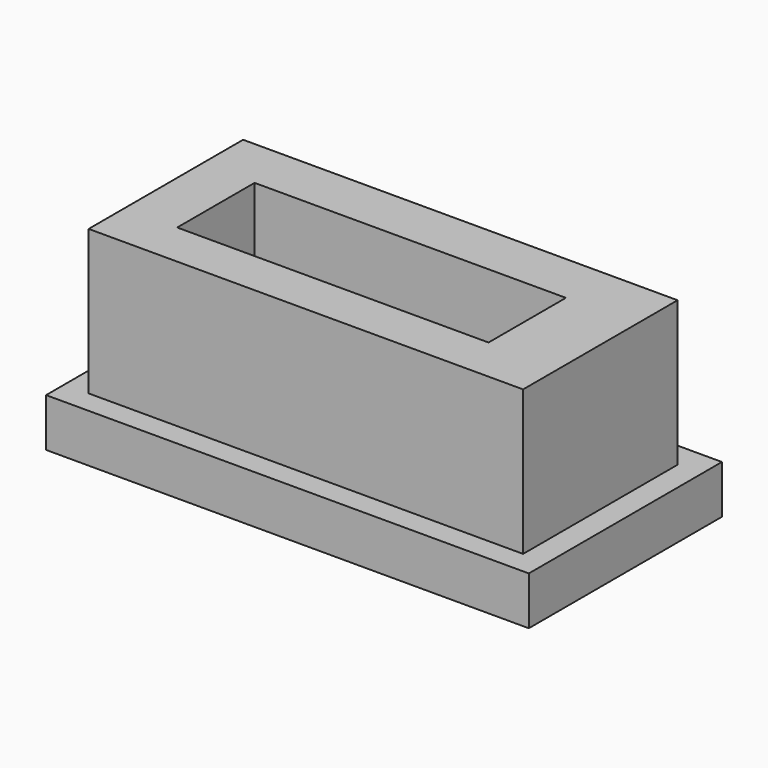
from build123d import *

# Parameters (mm, degrees)
F0_W     = 100
F0_H     = 50
F1_DEPTH = 10
F2_W     = 90
F2_H     = 40
F3_DEPTH = 5
F4_W     = 90
F4_H     = 40
F4_W_2   = 64.491807
F4_H_2   = 20.034401
F5_DEPTH = 25


with BuildPart() as f1:
    # F0 (on Top) → F1 (new body)
    with BuildSketch(Plane.XY):
        with Locations((-2.130391, -9.130959)):
            Rectangle(F0_W, F0_H)
    extrude(amount=F1_DEPTH)

    # F2 (on face) → F3 (join)
    with BuildSketch(Plane.XY.offset(10)):
        with Locations((-2.126822, -9.367195)):
            Rectangle(F2_W, F2_H)
    extrude(amount=F3_DEPTH)

    # F4 (on face) → F5 (join)
    with BuildSketch(Plane.XY.offset(15)):
        with Locations((-2.126822, -9.367195)):
            Rectangle(F4_W, F4_H)
        with Locations((-3.999688, -10.0172)):
            Rectangle(F4_W_2, F4_H_2, mode=Mode.SUBTRACT)
    extrude(amount=F5_DEPTH)


solid = f1.part
